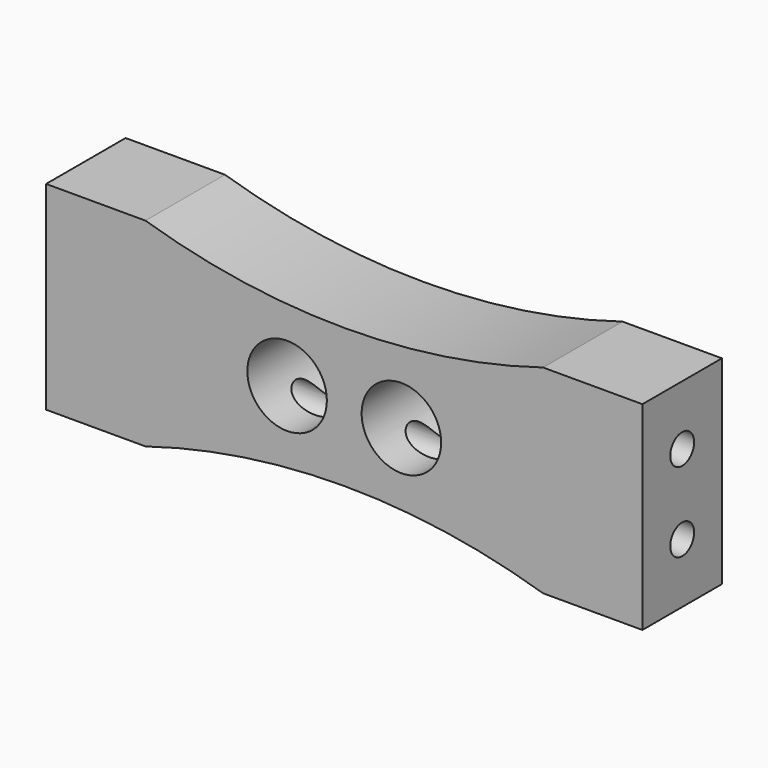
from build123d import *

# Parameters (mm, degrees)
F0_R     = 4
F1_DEPTH = 10
F2_R     = 1.5
F3_DEPTH = 60


with BuildPart() as f1:
    # F0 (on Front) → F1 (new body)
    with BuildSketch(Plane.XZ):
        with BuildLine():
            Line((-30, 10), (-30, -10))
            Line((-30, -10), (-20, -10))
            ThreePointArc((-20, -10), (0, -7), (20, -10))
            Line((20, -10), (30, -10))
            Line((30, -10), (30, 10))
            Line((30, 10), (20, 10))
            ThreePointArc((20, 10), (0, 7), (-20, 10))
            Line((-20, 10), (-30, 10))
        make_face()
        with Locations((-5.75, 0)):
            Circle(F0_R, mode=Mode.SUBTRACT)
        with Locations((5.75, 0)):
            Circle(F0_R, mode=Mode.SUBTRACT)
    extrude(amount=F1_DEPTH)

    # F2 (on face) → F3 (cut)
    with BuildSketch(Plane.YZ.offset(30)):
        with Locations((-5, 4)):
            Circle(F2_R)
        with Locations((-5, -4)):
            Circle(F2_R)
    extrude(amount=-F3_DEPTH, mode=Mode.SUBTRACT)


solid = f1.part
